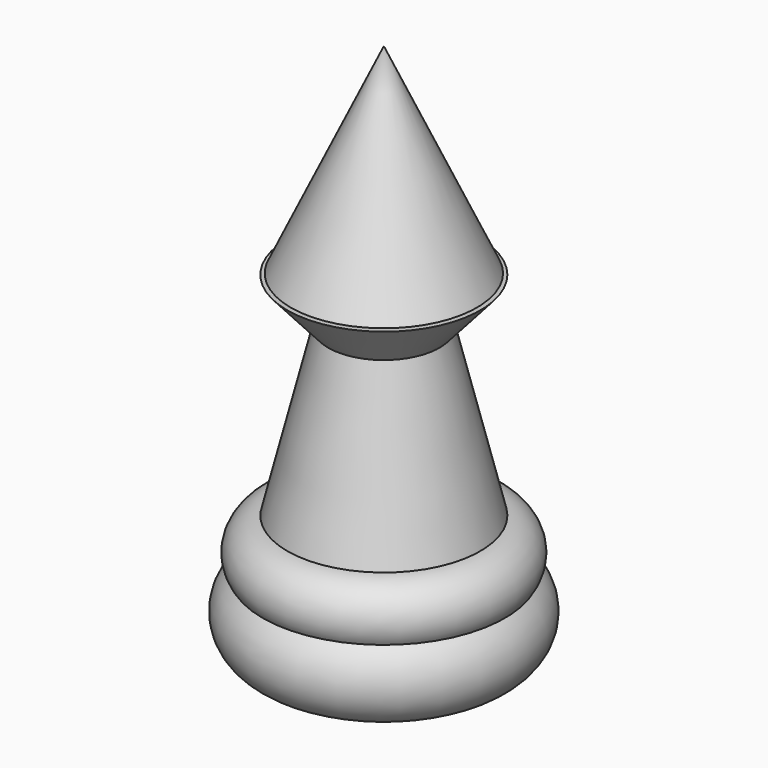
from build123d import *


with BuildPart() as f1:
    # F0 (on Front) → F1 (revolve)
    with BuildSketch(Plane.XZ):
        with BuildLine():
            ThreePointArc((-10.272533, -70.894942), (-9.866352, -70.912665), (-9.460171, -70.894942))
            Line((-9.460171, -70.894942), (-10.272533, -70.894942))
        make_face()
        with BuildLine():
            ThreePointArc((-10.272533, -57.294682), (-13.168551, -59.233862), (-12.900989, -62.70888))
            ThreePointArc((-12.900989, -62.70888), (-10.031212, -61.589262), (-7.089493, -62.503293))
            ThreePointArc((-7.089493, -62.503293), (-6.729779, -61.655313), (-6.606963, -60.742416))
            ThreePointArc((-6.606963, -60.742416), (-7.694584, -58.226304), (-10.272533, -57.294682))
        make_face()
        with BuildLine():
            ThreePointArc((-7.089493, -62.503293), (-10.031212, -61.589262), (-12.900989, -62.70888))
            ThreePointArc((-12.900989, -62.70888), (-9.939051, -64.194465), (-7.089493, -62.503293))
        make_face()
        with BuildLine():
            Line((-10.272533, -70.894942), (-9.460171, -70.894942))
            ThreePointArc((-9.460171, -70.894942), (-6.428392, -69.39998), (-5.203192, -66.249506))
            ThreePointArc((-5.203192, -66.249506), (-5.701379, -64.152351), (-7.089493, -62.503293))
            ThreePointArc((-7.089493, -62.503293), (-9.939051, -64.194465), (-12.900989, -62.70888))
            ThreePointArc((-12.900989, -62.70888), (-14.306251, -67.67511), (-10.272533, -70.894942))
        make_face()
        with BuildLine():
            Line((-9.460171, -70.894942), (0, -70.894942))
            Line((0, -70.894942), (0, -34.724049))
            Line((0, -34.724049), (-10.272533, -34.724049))
            Line((-10.272533, -34.724049), (-5.932026, -39.643291))
            Line((-5.932026, -39.643291), (-10.272533, -57.294682))
            ThreePointArc((-10.272533, -57.294682), (-7.694584, -58.226304), (-6.606963, -60.742416))
            ThreePointArc((-6.606963, -60.742416), (-6.729779, -61.655313), (-7.089493, -62.503293))
            ThreePointArc((-7.089493, -62.503293), (-5.701379, -64.152351), (-5.203192, -66.249506))
            ThreePointArc((-5.203192, -66.249506), (-6.428392, -69.39998), (-9.460171, -70.894942))
        make_face()
    revolve(axis=Axis((0, 0, -52.809495), (0, 0, -1)))

    # F2 (on Front) → F3 (revolve)
    with BuildSketch(Plane.XZ):
        Polygon((0, -13.299559), (-9.913647, -34.58536), (0, -34.803677), align=None)
    revolve(axis=Axis((0, 0, -24.051618), (0, 0, -1)))


solid = f1.part
